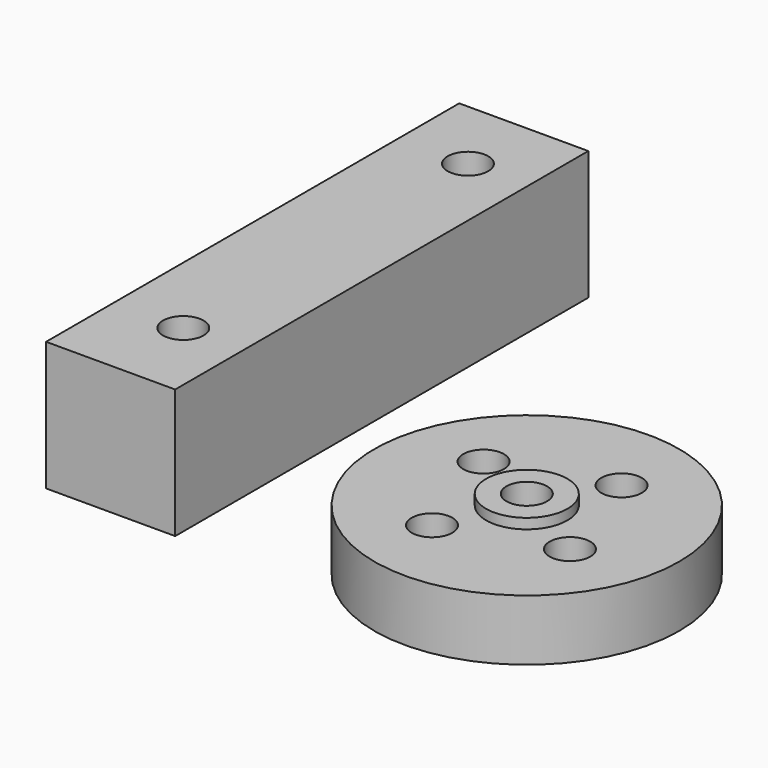
from build123d import *

# Parameters (mm, degrees)
F0_R      = 15
F1_DEPTH  = 6
F2_R      = 2
F3_DEPTH  = 6.001
F2_R_2    = 4
F4_DEPTH  = 1
F5_R      = 4
F5_R_2    = 2
F6_DEPTH  = 1
F7_W      = 12.7
F7_H      = 50.8
F8_DEPTH  = 12.7
F9_R      = 1.9939
F10_DEPTH = 25.4


with BuildPart() as f1:
    # F0 (on Top) → F1 (new body)
    with BuildSketch(Plane.XY):
        Circle(F0_R)
    extrude(amount=F1_DEPTH)

    # F2 (on face) → F3 (cut, through all)
    with BuildSketch(Plane.XY.offset(6)):
        with Locations((-7.1388032756, 3.6107461546)):
            Circle(F2_R)
        with Locations((3.6107461546, 7.1388032756)):
            Circle(F2_R)
        with Locations((7.1388032756, -3.6107461546)):
            Circle(F2_R)
        with Locations((-3.6107461546, -7.1388032756)):
            Circle(F2_R)
        Circle(F2_R)
    extrude(amount=-F3_DEPTH, mode=Mode.SUBTRACT)

    # F2 (on face) → F4 (join)
    with BuildSketch(Plane.XY.offset(6)):
        Circle(F2_R_2)
        Circle(F2_R, mode=Mode.SUBTRACT)
    extrude(amount=F4_DEPTH)

    # F5 (on face) → F6 (join)
    with BuildSketch(Plane(origin=(0, 0, 0), x_dir=(1, 0, 0), z_dir=(0, 0, -1))):
        Circle(F5_R)
        Circle(F5_R_2, mode=Mode.SUBTRACT)
    extrude(amount=F6_DEPTH)


with BuildPart() as f8:
    # F7 (on Top) → F8 (new body)
    with BuildSketch(Plane.XY):
        with Locations((-31.441340223, 13.5298846505)):
            Rectangle(F7_W, F7_H)
    extrude(amount=F8_DEPTH)

    # F9 (on face) → F10 (cut)
    with BuildSketch(Plane.XY.offset(12.7)):
        with Locations((-30.9908390045, 31.505475532)):
            Circle(F9_R)
        with Locations((-30.9908390045, -3.494524468)):
            Circle(F9_R)
    extrude(amount=-F10_DEPTH, mode=Mode.SUBTRACT)


solid = Compound([f1.part, f8.part])
